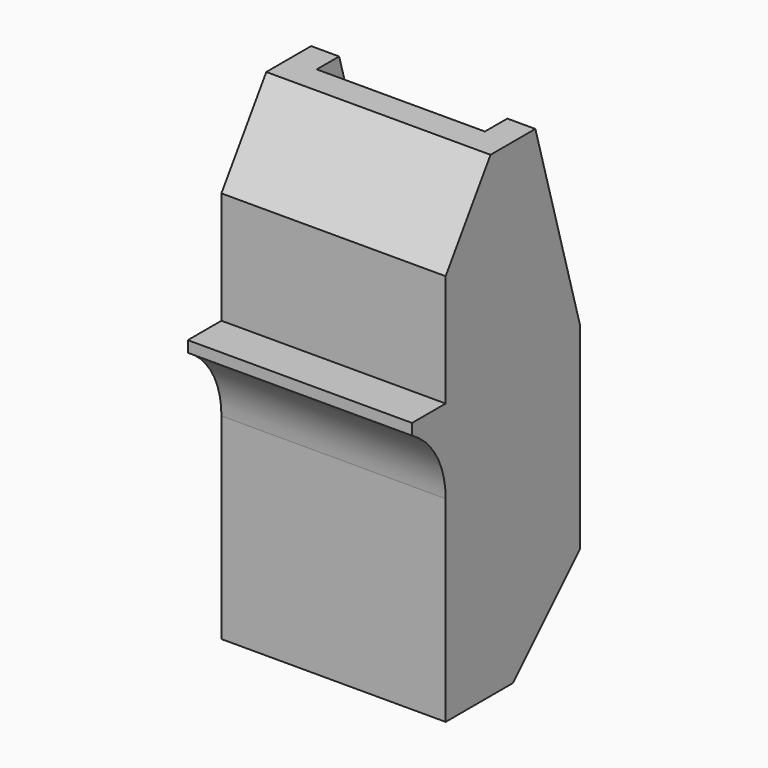
from build123d import *

# Parameters (mm, degrees)
CYLINDER462_R          = 1.6
CYLINDER462_DEPTH      = 10
CYLINDER463_R          = 3
CYLINDER463_DEPTH      = 3
BOX321_W               = 8
BOX321_H               = 7.5
BOX321_DEPTH           = 17
CHAMFER041_SIZE        = 3
CHAMFER042_SIZE2       = 2
CHAMFER042_SIZE        = 7
BOX322_W               = 6
BOX322_H               = 7.5
BOX322_DEPTH           = 17
BOX320_W               = 10
BOX320_H               = 3
BOX320_DEPTH           = 12
BOX319_W               = 10
BOX319_H               = 3
BOX319_DEPTH           = 12
FILLET113_R            = 2.99
BOX318_W               = 8
BOX318_H               = 7.5
BOX318_DEPTH           = 17
CHAMFER038_SIZE        = 3
CHAMFER039_SIZE2       = 2
CHAMFER039_SIZE        = 7
CHAMFER040_SIZE2       = 3
CHAMFER040_SIZE        = 2
CUT319_PLACEMENT_ANGLE = 180


with BuildPart() as cylinder576:
    # Cylinder462 → Cylinder462 (new body)
    with BuildSketch(Plane(origin=(120, -21, 13), x_dir=(1, 0, 0), z_dir=(0, 1, 0))):
        Circle(CYLINDER462_R)
    extrude(amount=CYLINDER462_DEPTH)


with BuildPart() as cylinder577:
    # Cylinder463 → Cylinder463 (new body)
    with BuildSketch(Plane(origin=(120, -15, 13), x_dir=(1, 0, 0), z_dir=(0, 1, 0))):
        Circle(CYLINDER463_R)
    extrude(amount=CYLINDER463_DEPTH)


with BuildPart() as chamfer042:
    # Box321 → Box321 (new body)
    with BuildSketch(Plane(origin=(116, -16, 10), x_dir=(1, 0, 0), z_dir=(0, 0, 1))):
        with Locations((4, 3.75)):
            Rectangle(BOX321_W, BOX321_H)
    extrude(amount=BOX321_DEPTH)

    # Chamfer041
    chamfer041_edges = [chamfer042.edges().sort_by_distance(p)[0] for p in [
        (120, -16, 10),
    ]]
    chamfer(chamfer041_edges, length=CHAMFER041_SIZE)

    # Chamfer042
    chamfer042_edges = [chamfer042.edges().sort_by_distance(p)[0] for p in [
        (120, -16, 27),
    ]]
    chamfer042_side = chamfer042.faces().sort_by_distance((120, -16, 20))[0]
    chamfer(chamfer042_edges, length=CHAMFER042_SIZE, length2=CHAMFER042_SIZE2, reference=chamfer042_side)


with BuildPart() as cut317:
    # Box322 → Box322 (new body)
    with BuildSketch(Plane(origin=(117, -20, 10), x_dir=(1, 0, 0), z_dir=(0, 0, 1))):
        with Locations((3, 3.75)):
            Rectangle(BOX322_W, BOX322_H)
    extrude(amount=BOX322_DEPTH)

    # Cut317: cut Chamfer042
    add(chamfer042.part, mode=Mode.SUBTRACT)


with BuildPart() as cut317_1:
    # Cut317 placement: moved
    add(cut317.part.moved(Location((0, 1, 0))))


with BuildPart() as cube391:
    # Box320 → Box320 (new body)
    with BuildSketch(Plane(origin=(116, -10, 20), x_dir=(1, 0, 0), z_dir=(0, 0, 1))):
        with Locations((5, 1.5)):
            Rectangle(BOX320_W, BOX320_H)
    extrude(amount=BOX320_DEPTH)


with BuildPart() as fillet113:
    # Box319 → Box319 (new body)
    with BuildSketch(Plane(origin=(116, -10, 8), x_dir=(1, 0, 0), z_dir=(0, 0, 1))):
        with Locations((5, 1.5)):
            Rectangle(BOX319_W, BOX319_H)
    extrude(amount=BOX319_DEPTH)

    # Fillet113
    fillet113_edges = [fillet113.edges().sort_by_distance(p)[0] for p in [
        (121, -10, 20),
    ]]
    fillet(fillet113_edges, radius=FILLET113_R)


with BuildPart() as kipper_holder_right:
    # Box318 → Box318 (new body)
    with BuildSketch(Plane(origin=(116, -16, 10), x_dir=(1, 0, 0), z_dir=(0, 0, 1))):
        with Locations((4, 3.75)):
            Rectangle(BOX318_W, BOX318_H)
    extrude(amount=BOX318_DEPTH)

    # Chamfer038
    chamfer038_edges = [kipper_holder_right.edges().sort_by_distance(p)[0] for p in [
        (120, -16, 10),
    ]]
    chamfer(chamfer038_edges, length=CHAMFER038_SIZE)

    # Chamfer039
    chamfer039_edges = [kipper_holder_right.edges().sort_by_distance(p)[0] for p in [
        (120, -16, 27),
    ]]
    chamfer039_side = kipper_holder_right.faces().sort_by_distance((120, -16, 20))[0]
    chamfer(chamfer039_edges, length=CHAMFER039_SIZE, length2=CHAMFER039_SIZE2, reference=chamfer039_side)

    # Cut315: cut Fillet113
    add(fillet113.part, mode=Mode.SUBTRACT)

    # Cut316: cut Cube391
    add(cube391.part, mode=Mode.SUBTRACT)

    # Chamfer040
    chamfer040_edges = [kipper_holder_right.edges().sort_by_distance(p)[0] for p in [
        (120, -10, 27),
    ]]
    chamfer040_side = kipper_holder_right.faces().sort_by_distance((120, -12, 27))[0]
    chamfer(chamfer040_edges, length=CHAMFER040_SIZE, length2=CHAMFER040_SIZE2, reference=chamfer040_side)

    # Cut318: cut Cut317
    add(cut317_1.part, mode=Mode.SUBTRACT)

    # Fusion417: union Cylinder577
    add(cylinder577.part)

    # Cut319: cut Cylinder576
    add(cylinder576.part, mode=Mode.SUBTRACT)


with BuildPart() as kipper_holder_right_1:
    # Cut319 placement: moved
    add(kipper_holder_right.part.moved(Location((240, 62, 0))).rotate(Axis((240, 62, 0), (0, 0, 1)), CUT319_PLACEMENT_ANGLE))


solid = kipper_holder_right_1.part
